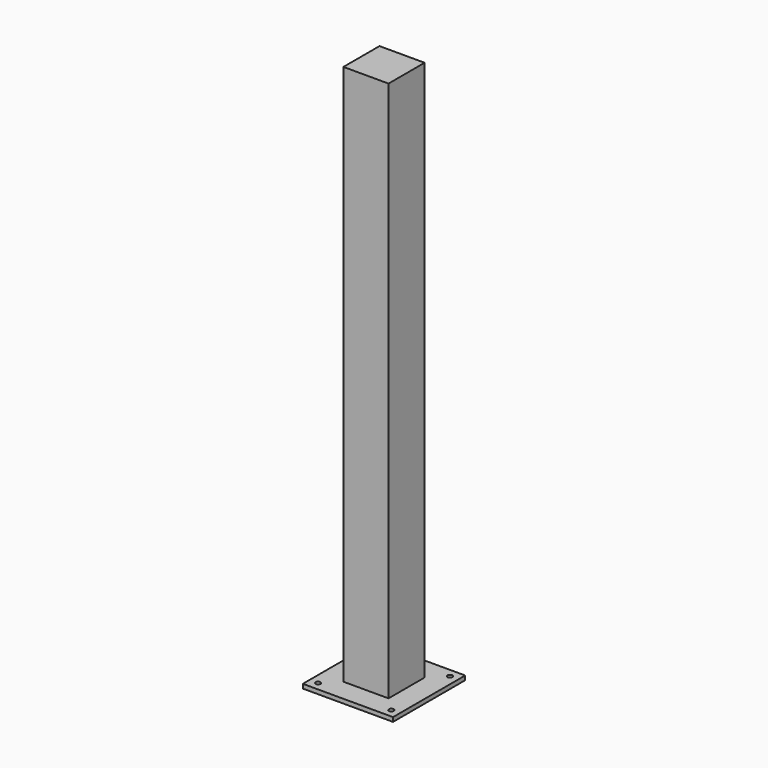
from build123d import *

# Parameters (mm, degrees)
F0_W     = 203.2
F0_H     = 203.2
F1_DEPTH = 9.525
F3_D     = 11.1125
F2_W     = 101.6
F2_H     = 101.6
F4_DEPTH = 1219.2


with BuildPart() as f1:
    # F0 (on Top) → F1 (new body)
    with BuildSketch(Plane.XY):
        Rectangle(F0_W, F0_H)
    extrude(amount=F1_DEPTH)

    # F3 (through all)
    with Locations(Plane(origin=(0, 0, 0), x_dir=(1, 0, 0), z_dir=(0, 0, -1))):
        with Locations((-82.55, 82.55), (82.55, 82.55), (82.55, -82.55), (-82.55, -82.55)):
            Hole(F3_D / 2)


with BuildPart() as f4:
    # F2 (on face) → F4 (new body)
    with BuildSketch(Plane.XY.offset(9.525)):
        Rectangle(F2_W, F2_H)
    extrude(amount=F4_DEPTH)


solid = Compound([f1.part, f4.part])
